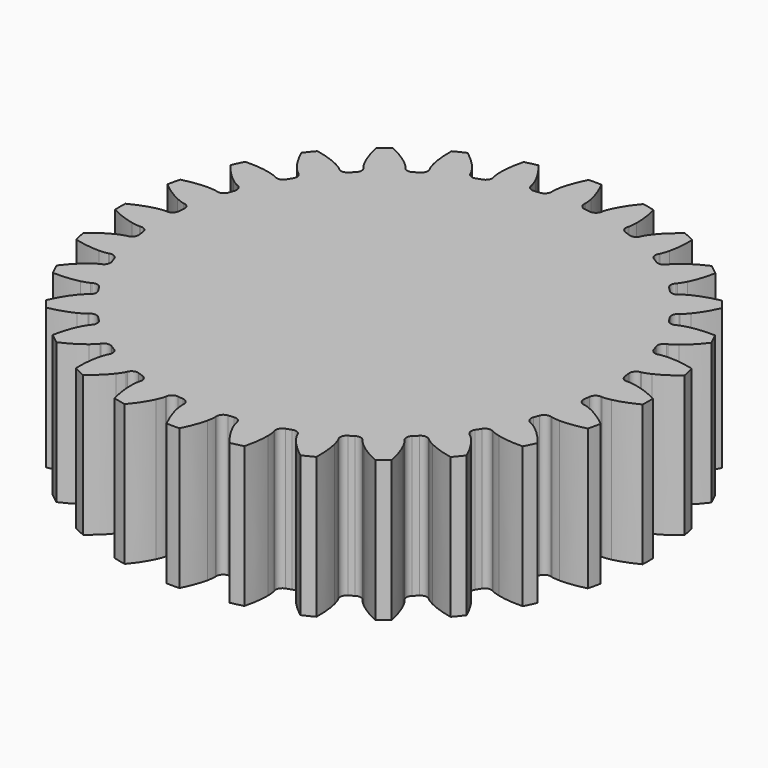
from build123d import *

# Parameters (mm, degrees)
PAD_DEPTH = 20


with BuildPart() as part:
    # InvoluteGear → Pad (new body)
    with BuildSketch(Plane.XY):
        with BuildLine():
            Line((32.716459, -2.32692), (32.856946, -2.335013))
            add(Edge.make_bspline(
                [(32.856946, -2.335013), (32.990949, -2.337125), (33.394798, -2.328721), (34.06713, -2.188651)],
                knots=[0, 0, 0, 0, 1, 1, 1, 1], degree=3))
            add(Edge.make_bspline(
                [(34.06713, -2.188651), (34.873016, -2.018801), (36.038338, -1.661329), (37.491435, -0.912795)],
                knots=[0, 0, 0, 0, 1, 1, 1, 1], degree=3))
            ThreePointArc((37.491435, -0.912795), (37.502546, 0), (37.491435, 0.912795))
            add(Edge.make_bspline(
                [(37.491435, 0.912795), (36.038338, 1.661329), (34.873016, 2.018801), (34.06713, 2.188651)],
                knots=[0, 0, 0, 0, 1, 1, 1, 1], degree=3))
            add(Edge.make_bspline(
                [(34.06713, 2.188651), (33.394798, 2.328721), (32.990949, 2.337125), (32.856946, 2.335013)],
                knots=[0, 0, 0, 0, 1, 1, 1, 1], degree=3))
            Line((32.856946, 2.335013), (32.716459, 2.32692))
            ThreePointArc((32.716459, 2.32692), (32.04606, 2.544962), (31.71713, 3.168486))
            ThreePointArc((31.71713, 3.168486), (31.674577, 3.568868), (31.62697, 3.96868))
            ThreePointArc((31.62697, 3.96868), (31.808906, 4.649765), (32.413977, 5.011518))
            Line((32.413977, 5.011518), (32.552743, 5.034889))
            add(Edge.make_bspline(
                [(32.552743, 5.034889), (32.683857, 5.062649), (33.07571, 5.160707), (33.700017, 5.446872)],
                knots=[0, 0, 0, 0, 1, 1, 1, 1], degree=3))
            add(Edge.make_bspline(
                [(33.700017, 5.446872), (34.447903, 5.791791), (35.504462, 6.399608), (36.754562, 7.45272)],
                knots=[0, 0, 0, 0, 1, 1, 1, 1], degree=3))
            ThreePointArc((36.754562, 7.45272), (36.562279, 8.345102), (36.348331, 9.232538))
            add(Edge.make_bspline(
                [(36.348331, 9.232538), (34.765101, 9.638961), (33.549452, 9.728162), (32.725976, 9.714427)],
                knots=[0, 0, 0, 0, 1, 1, 1, 1], degree=3))
            add(Edge.make_bspline(
                [(32.725976, 9.714427), (32.039332, 9.701377), (31.643738, 9.619705), (31.513565, 9.587827)],
                knots=[0, 0, 0, 0, 1, 1, 1, 1], degree=3))
            Line((31.513565, 9.587827), (31.378401, 9.548676))
            ThreePointArc((31.378401, 9.548676), (30.676291, 9.612074), (30.216861, 10.146771))
            ThreePointArc((30.216861, 10.146771), (30.086281, 10.527645), (29.950901, 10.90684))
            ThreePointArc((29.950901, 10.90684), (29.97672, 11.611333), (30.486124, 12.098658))
            Line((30.486124, 12.098658), (30.61621, 12.152321))
            add(Edge.make_bspline(
                [(30.61621, 12.152321), (30.737859, 12.20856), (31.098067, 12.391355), (31.643044, 12.809267)],
                knots=[0, 0, 0, 0, 1, 1, 1, 1], degree=3))
            add(Edge.make_bspline(
                [(31.643044, 12.809267), (32.295427, 13.311958), (33.190244, 14.139643), (34.174663, 15.444524)],
                knots=[0, 0, 0, 0, 1, 1, 1, 1], degree=3))
            ThreePointArc((34.174663, 15.444524), (33.788626, 16.271745), (33.382569, 17.089324))
            add(Edge.make_bspline(
                [(33.382569, 17.089324), (31.748597, 17.133255), (30.543577, 16.949712), (29.743804, 16.753081)],
                knots=[0, 0, 0, 0, 1, 1, 1, 1], degree=3))
            add(Edge.make_bspline(
                [(29.743804, 16.753081), (29.077279, 16.587565), (28.709778, 16.419913), (28.589961, 16.359868)],
                knots=[0, 0, 0, 0, 1, 1, 1, 1], degree=3))
            Line((28.589961, 16.359868), (28.466899, 16.291622))
            ThreePointArc((28.466899, 16.291622), (27.768285, 16.197196), (27.201392, 16.616254))
            ThreePointArc((27.201392, 16.616254), (26.989334, 16.958522), (26.772969, 17.298085))
            ThreePointArc((26.772969, 17.298085), (26.641377, 17.99066), (27.029568, 18.57912))
            Line((27.029568, 18.57912), (27.144452, 18.660384))
            add(Edge.make_bspline(
                [(27.144452, 18.660384), (27.250536, 18.742283), (27.561038, 19.000649), (27.999357, 19.529352)],
                knots=[0, 0, 0, 0, 1, 1, 1, 1], degree=3))
            add(Edge.make_bspline(
                [(27.999357, 19.529352), (28.523524, 20.164608), (29.211729, 21.170657), (29.881102, 22.661876)],
                knots=[0, 0, 0, 0, 1, 1, 1, 1], degree=3))
            ThreePointArc((29.881102, 22.661876), (29.320671, 23.382455), (28.742866, 24.089179))
            add(Edge.make_bspline(
                [(28.742866, 24.089179), (27.140085, 23.768415), (26.00612, 23.321332), (25.270153, 22.951665)],
                knots=[0, 0, 0, 0, 1, 1, 1, 1], degree=3))
            add(Edge.make_bspline(
                [(25.270153, 22.951665), (24.657171, 22.641983), (24.336189, 22.396758), (24.232738, 22.311557)],
                knots=[0, 0, 0, 0, 1, 1, 1, 1], degree=3))
            Line((24.232738, 22.311557), (24.127947, 22.217638))
            ThreePointArc((24.127947, 22.217638), (23.467861, 21.970123), (22.821932, 22.252529))
            ThreePointArc((22.821932, 22.252529), (22.539029, 22.539029), (22.252529, 22.821932))
            ThreePointArc((22.252529, 22.821932), (21.970123, 23.467861), (22.217638, 24.127947))
            Line((22.217638, 24.127947), (22.311557, 24.232738))
            add(Edge.make_bspline(
                [(22.311557, 24.232738), (22.396758, 24.336189), (22.641983, 24.657171), (22.951665, 25.270153)],
                knots=[0, 0, 0, 0, 1, 1, 1, 1], degree=3))
            add(Edge.make_bspline(
                [(22.951665, 25.270153), (23.321332, 26.00612), (23.768415, 27.140085), (24.089179, 28.742866)],
                knots=[0, 0, 0, 0, 1, 1, 1, 1], degree=3))
            ThreePointArc((24.089179, 28.742866), (23.382455, 29.320671), (22.661876, 29.881102))
            add(Edge.make_bspline(
                [(22.661876, 29.881102), (21.170657, 29.211729), (20.164608, 28.523524), (19.529352, 27.999357)],
                knots=[0, 0, 0, 0, 1, 1, 1, 1], degree=3))
            add(Edge.make_bspline(
                [(19.529352, 27.999357), (19.000649, 27.561038), (18.742283, 27.250536), (18.660384, 27.144452)],
                knots=[0, 0, 0, 0, 1, 1, 1, 1], degree=3))
            Line((18.660384, 27.144452), (18.57912, 27.029568))
            ThreePointArc((18.57912, 27.029568), (17.99066, 26.641377), (17.298085, 26.772969))
            ThreePointArc((17.298085, 26.772969), (16.958522, 26.989334), (16.616254, 27.201392))
            ThreePointArc((16.616254, 27.201392), (16.197196, 27.768285), (16.291622, 28.466899))
            Line((16.291622, 28.466899), (16.359868, 28.589961))
            add(Edge.make_bspline(
                [(16.359868, 28.589961), (16.419913, 28.709778), (16.587565, 29.077279), (16.753081, 29.743804)],
                knots=[0, 0, 0, 0, 1, 1, 1, 1], degree=3))
            add(Edge.make_bspline(
                [(16.753081, 29.743804), (16.949712, 30.543577), (17.133255, 31.748597), (17.089324, 33.382569)],
                knots=[0, 0, 0, 0, 1, 1, 1, 1], degree=3))
            ThreePointArc((17.089324, 33.382569), (16.271745, 33.788626), (15.444524, 34.174663))
            add(Edge.make_bspline(
                [(15.444524, 34.174663), (14.139643, 33.190244), (13.311958, 32.295427), (12.809267, 31.643044)],
                knots=[0, 0, 0, 0, 1, 1, 1, 1], degree=3))
            add(Edge.make_bspline(
                [(12.809267, 31.643044), (12.391355, 31.098067), (12.20856, 30.737859), (12.152321, 30.61621)],
                knots=[0, 0, 0, 0, 1, 1, 1, 1], degree=3))
            Line((12.152321, 30.61621), (12.098658, 30.486124))
            ThreePointArc((12.098658, 30.486124), (11.611333, 29.97672), (10.90684, 29.950901))
            ThreePointArc((10.90684, 29.950901), (10.527645, 30.086281), (10.146771, 30.216861))
            ThreePointArc((10.146771, 30.216861), (9.612074, 30.676291), (9.548676, 31.378401))
            Line((9.548676, 31.378401), (9.587827, 31.513565))
            add(Edge.make_bspline(
                [(9.587827, 31.513565), (9.619705, 31.643738), (9.701377, 32.039332), (9.714427, 32.725976)],
                knots=[0, 0, 0, 0, 1, 1, 1, 1], degree=3))
            add(Edge.make_bspline(
                [(9.714427, 32.725976), (9.728162, 33.549452), (9.638961, 34.765101), (9.232538, 36.348331)],
                knots=[0, 0, 0, 0, 1, 1, 1, 1], degree=3))
            ThreePointArc((9.232538, 36.348331), (8.345102, 36.562279), (7.45272, 36.754562))
            add(Edge.make_bspline(
                [(7.45272, 36.754562), (6.399608, 35.504462), (5.791791, 34.447903), (5.446872, 33.700017)],
                knots=[0, 0, 0, 0, 1, 1, 1, 1], degree=3))
            add(Edge.make_bspline(
                [(5.446872, 33.700017), (5.160707, 33.07571), (5.062649, 32.683857), (5.034889, 32.552743)],
                knots=[0, 0, 0, 0, 1, 1, 1, 1], degree=3))
            Line((5.034889, 32.552743), (5.011518, 32.413977))
            ThreePointArc((5.011518, 32.413977), (4.649765, 31.808906), (3.96868, 31.62697))
            ThreePointArc((3.96868, 31.62697), (3.568868, 31.674577), (3.168486, 31.71713))
            ThreePointArc((3.168486, 31.71713), (2.544962, 32.04606), (2.32692, 32.716459))
            Line((2.32692, 32.716459), (2.335013, 32.856946))
            add(Edge.make_bspline(
                [(2.335013, 32.856946), (2.337125, 32.990949), (2.328721, 33.394798), (2.188651, 34.06713)],
                knots=[0, 0, 0, 0, 1, 1, 1, 1], degree=3))
            add(Edge.make_bspline(
                [(2.188651, 34.06713), (2.018801, 34.873016), (1.661329, 36.038338), (0.912795, 37.491435)],
                knots=[0, 0, 0, 0, 1, 1, 1, 1], degree=3))
            ThreePointArc((0.912795, 37.491435), (0, 37.502546), (-0.912795, 37.491435))
            add(Edge.make_bspline(
                [(-0.912795, 37.491435), (-1.661329, 36.038338), (-2.018801, 34.873016), (-2.188651, 34.06713)],
                knots=[0, 0, 0, 0, 1, 1, 1, 1], degree=3))
            add(Edge.make_bspline(
                [(-2.188651, 34.06713), (-2.328721, 33.394798), (-2.337125, 32.990949), (-2.335013, 32.856946)],
                knots=[0, 0, 0, 0, 1, 1, 1, 1], degree=3))
            Line((-2.335013, 32.856946), (-2.32692, 32.716459))
            ThreePointArc((-2.32692, 32.716459), (-2.544962, 32.04606), (-3.168486, 31.71713))
            ThreePointArc((-3.168486, 31.71713), (-3.568868, 31.674577), (-3.96868, 31.62697))
            ThreePointArc((-3.96868, 31.62697), (-4.649765, 31.808906), (-5.011518, 32.413977))
            Line((-5.011518, 32.413977), (-5.034889, 32.552743))
            add(Edge.make_bspline(
                [(-5.034889, 32.552743), (-5.062649, 32.683857), (-5.160707, 33.07571), (-5.446872, 33.700017)],
                knots=[0, 0, 0, 0, 1, 1, 1, 1], degree=3))
            add(Edge.make_bspline(
                [(-5.446872, 33.700017), (-5.791791, 34.447903), (-6.399608, 35.504462), (-7.45272, 36.754562)],
                knots=[0, 0, 0, 0, 1, 1, 1, 1], degree=3))
            ThreePointArc((-7.45272, 36.754562), (-8.345102, 36.562279), (-9.232538, 36.348331))
            add(Edge.make_bspline(
                [(-9.232538, 36.348331), (-9.638961, 34.765101), (-9.728162, 33.549452), (-9.714427, 32.725976)],
                knots=[0, 0, 0, 0, 1, 1, 1, 1], degree=3))
            add(Edge.make_bspline(
                [(-9.714427, 32.725976), (-9.701377, 32.039332), (-9.619705, 31.643738), (-9.587827, 31.513565)],
                knots=[0, 0, 0, 0, 1, 1, 1, 1], degree=3))
            Line((-9.587827, 31.513565), (-9.548676, 31.378401))
            ThreePointArc((-9.548676, 31.378401), (-9.612074, 30.676291), (-10.146771, 30.216861))
            ThreePointArc((-10.146771, 30.216861), (-10.527645, 30.086281), (-10.90684, 29.950901))
            ThreePointArc((-10.90684, 29.950901), (-11.611333, 29.97672), (-12.098658, 30.486124))
            Line((-12.098658, 30.486124), (-12.152321, 30.61621))
            add(Edge.make_bspline(
                [(-12.152321, 30.61621), (-12.20856, 30.737859), (-12.391355, 31.098067), (-12.809267, 31.643044)],
                knots=[0, 0, 0, 0, 1, 1, 1, 1], degree=3))
            add(Edge.make_bspline(
                [(-12.809267, 31.643044), (-13.311958, 32.295427), (-14.139643, 33.190244), (-15.444524, 34.174663)],
                knots=[0, 0, 0, 0, 1, 1, 1, 1], degree=3))
            ThreePointArc((-15.444524, 34.174663), (-16.271745, 33.788626), (-17.089324, 33.382569))
            add(Edge.make_bspline(
                [(-17.089324, 33.382569), (-17.133255, 31.748597), (-16.949712, 30.543577), (-16.753081, 29.743804)],
                knots=[0, 0, 0, 0, 1, 1, 1, 1], degree=3))
            add(Edge.make_bspline(
                [(-16.753081, 29.743804), (-16.587565, 29.077279), (-16.419913, 28.709778), (-16.359868, 28.589961)],
                knots=[0, 0, 0, 0, 1, 1, 1, 1], degree=3))
            Line((-16.359868, 28.589961), (-16.291622, 28.466899))
            ThreePointArc((-16.291622, 28.466899), (-16.197196, 27.768285), (-16.616254, 27.201392))
            ThreePointArc((-16.616254, 27.201392), (-16.958522, 26.989334), (-17.298085, 26.772969))
            ThreePointArc((-17.298085, 26.772969), (-17.99066, 26.641377), (-18.57912, 27.029568))
            Line((-18.57912, 27.029568), (-18.660384, 27.144452))
            add(Edge.make_bspline(
                [(-18.660384, 27.144452), (-18.742283, 27.250536), (-19.000649, 27.561038), (-19.529352, 27.999357)],
                knots=[0, 0, 0, 0, 1, 1, 1, 1], degree=3))
            add(Edge.make_bspline(
                [(-19.529352, 27.999357), (-20.164608, 28.523524), (-21.170657, 29.211729), (-22.661876, 29.881102)],
                knots=[0, 0, 0, 0, 1, 1, 1, 1], degree=3))
            ThreePointArc((-22.661876, 29.881102), (-23.382455, 29.320671), (-24.089179, 28.742866))
            add(Edge.make_bspline(
                [(-24.089179, 28.742866), (-23.768415, 27.140085), (-23.321332, 26.00612), (-22.951665, 25.270153)],
                knots=[0, 0, 0, 0, 1, 1, 1, 1], degree=3))
            add(Edge.make_bspline(
                [(-22.951665, 25.270153), (-22.641983, 24.657171), (-22.396758, 24.336189), (-22.311557, 24.232738)],
                knots=[0, 0, 0, 0, 1, 1, 1, 1], degree=3))
            Line((-22.311557, 24.232738), (-22.217638, 24.127947))
            ThreePointArc((-22.217638, 24.127947), (-21.970123, 23.467861), (-22.252529, 22.821932))
            ThreePointArc((-22.252529, 22.821932), (-22.539029, 22.539029), (-22.821932, 22.252529))
            ThreePointArc((-22.821932, 22.252529), (-23.467861, 21.970123), (-24.127947, 22.217638))
            Line((-24.127947, 22.217638), (-24.232738, 22.311557))
            add(Edge.make_bspline(
                [(-24.232738, 22.311557), (-24.336189, 22.396758), (-24.657171, 22.641983), (-25.270153, 22.951665)],
                knots=[0, 0, 0, 0, 1, 1, 1, 1], degree=3))
            add(Edge.make_bspline(
                [(-25.270153, 22.951665), (-26.00612, 23.321332), (-27.140085, 23.768415), (-28.742866, 24.089179)],
                knots=[0, 0, 0, 0, 1, 1, 1, 1], degree=3))
            ThreePointArc((-28.742866, 24.089179), (-29.320671, 23.382455), (-29.881102, 22.661876))
            add(Edge.make_bspline(
                [(-29.881102, 22.661876), (-29.211729, 21.170657), (-28.523524, 20.164608), (-27.999357, 19.529352)],
                knots=[0, 0, 0, 0, 1, 1, 1, 1], degree=3))
            add(Edge.make_bspline(
                [(-27.999357, 19.529352), (-27.561038, 19.000649), (-27.250536, 18.742283), (-27.144452, 18.660384)],
                knots=[0, 0, 0, 0, 1, 1, 1, 1], degree=3))
            Line((-27.144452, 18.660384), (-27.029568, 18.57912))
            ThreePointArc((-27.029568, 18.57912), (-26.641377, 17.99066), (-26.772969, 17.298085))
            ThreePointArc((-26.772969, 17.298085), (-26.989334, 16.958522), (-27.201392, 16.616254))
            ThreePointArc((-27.201392, 16.616254), (-27.768285, 16.197196), (-28.466899, 16.291622))
            Line((-28.466899, 16.291622), (-28.589961, 16.359868))
            add(Edge.make_bspline(
                [(-28.589961, 16.359868), (-28.709778, 16.419913), (-29.077279, 16.587565), (-29.743804, 16.753081)],
                knots=[0, 0, 0, 0, 1, 1, 1, 1], degree=3))
            add(Edge.make_bspline(
                [(-29.743804, 16.753081), (-30.543577, 16.949712), (-31.748597, 17.133255), (-33.382569, 17.089324)],
                knots=[0, 0, 0, 0, 1, 1, 1, 1], degree=3))
            ThreePointArc((-33.382569, 17.089324), (-33.788626, 16.271745), (-34.174663, 15.444524))
            add(Edge.make_bspline(
                [(-34.174663, 15.444524), (-33.190244, 14.139643), (-32.295427, 13.311958), (-31.643044, 12.809267)],
                knots=[0, 0, 0, 0, 1, 1, 1, 1], degree=3))
            add(Edge.make_bspline(
                [(-31.643044, 12.809267), (-31.098067, 12.391355), (-30.737859, 12.20856), (-30.61621, 12.152321)],
                knots=[0, 0, 0, 0, 1, 1, 1, 1], degree=3))
            Line((-30.61621, 12.152321), (-30.486124, 12.098658))
            ThreePointArc((-30.486124, 12.098658), (-29.97672, 11.611333), (-29.950901, 10.90684))
            ThreePointArc((-29.950901, 10.90684), (-30.086281, 10.527645), (-30.216861, 10.146771))
            ThreePointArc((-30.216861, 10.146771), (-30.676291, 9.612074), (-31.378401, 9.548676))
            Line((-31.378401, 9.548676), (-31.513565, 9.587827))
            add(Edge.make_bspline(
                [(-31.513565, 9.587827), (-31.643738, 9.619705), (-32.039332, 9.701377), (-32.725976, 9.714427)],
                knots=[0, 0, 0, 0, 1, 1, 1, 1], degree=3))
            add(Edge.make_bspline(
                [(-32.725976, 9.714427), (-33.549452, 9.728162), (-34.765101, 9.638961), (-36.348331, 9.232538)],
                knots=[0, 0, 0, 0, 1, 1, 1, 1], degree=3))
            ThreePointArc((-36.348331, 9.232538), (-36.562279, 8.345102), (-36.754562, 7.45272))
            add(Edge.make_bspline(
                [(-36.754562, 7.45272), (-35.504462, 6.399608), (-34.447903, 5.791791), (-33.700017, 5.446872)],
                knots=[0, 0, 0, 0, 1, 1, 1, 1], degree=3))
            add(Edge.make_bspline(
                [(-33.700017, 5.446872), (-33.07571, 5.160707), (-32.683857, 5.062649), (-32.552743, 5.034889)],
                knots=[0, 0, 0, 0, 1, 1, 1, 1], degree=3))
            Line((-32.552743, 5.034889), (-32.413977, 5.011518))
            ThreePointArc((-32.413977, 5.011518), (-31.808906, 4.649765), (-31.62697, 3.96868))
            ThreePointArc((-31.62697, 3.96868), (-31.674577, 3.568868), (-31.71713, 3.168486))
            ThreePointArc((-31.71713, 3.168486), (-32.04606, 2.544962), (-32.716459, 2.32692))
            Line((-32.716459, 2.32692), (-32.856946, 2.335013))
            add(Edge.make_bspline(
                [(-32.856946, 2.335013), (-32.990949, 2.337125), (-33.394798, 2.328721), (-34.06713, 2.188651)],
                knots=[0, 0, 0, 0, 1, 1, 1, 1], degree=3))
            add(Edge.make_bspline(
                [(-34.06713, 2.188651), (-34.873016, 2.018801), (-36.038338, 1.661329), (-37.491435, 0.912795)],
                knots=[0, 0, 0, 0, 1, 1, 1, 1], degree=3))
            ThreePointArc((-37.491435, 0.912795), (-37.502546, 0), (-37.491435, -0.912795))
            add(Edge.make_bspline(
                [(-37.491435, -0.912795), (-36.038338, -1.661329), (-34.873016, -2.018801), (-34.06713, -2.188651)],
                knots=[0, 0, 0, 0, 1, 1, 1, 1], degree=3))
            add(Edge.make_bspline(
                [(-34.06713, -2.188651), (-33.394798, -2.328721), (-32.990949, -2.337125), (-32.856946, -2.335013)],
                knots=[0, 0, 0, 0, 1, 1, 1, 1], degree=3))
            Line((-32.856946, -2.335013), (-32.716459, -2.32692))
            ThreePointArc((-32.716459, -2.32692), (-32.04606, -2.544962), (-31.71713, -3.168486))
            ThreePointArc((-31.71713, -3.168486), (-31.674577, -3.568868), (-31.62697, -3.96868))
            ThreePointArc((-31.62697, -3.96868), (-31.808906, -4.649765), (-32.413977, -5.011518))
            Line((-32.413977, -5.011518), (-32.552743, -5.034889))
            add(Edge.make_bspline(
                [(-32.552743, -5.034889), (-32.683857, -5.062649), (-33.07571, -5.160707), (-33.700017, -5.446872)],
                knots=[0, 0, 0, 0, 1, 1, 1, 1], degree=3))
            add(Edge.make_bspline(
                [(-33.700017, -5.446872), (-34.447903, -5.791791), (-35.504462, -6.399608), (-36.754562, -7.45272)],
                knots=[0, 0, 0, 0, 1, 1, 1, 1], degree=3))
            ThreePointArc((-36.754562, -7.45272), (-36.562279, -8.345102), (-36.348331, -9.232538))
            add(Edge.make_bspline(
                [(-36.348331, -9.232538), (-34.765101, -9.638961), (-33.549452, -9.728162), (-32.725976, -9.714427)],
                knots=[0, 0, 0, 0, 1, 1, 1, 1], degree=3))
            add(Edge.make_bspline(
                [(-32.725976, -9.714427), (-32.039332, -9.701377), (-31.643738, -9.619705), (-31.513565, -9.587827)],
                knots=[0, 0, 0, 0, 1, 1, 1, 1], degree=3))
            Line((-31.513565, -9.587827), (-31.378401, -9.548676))
            ThreePointArc((-31.378401, -9.548676), (-30.676291, -9.612074), (-30.216861, -10.146771))
            ThreePointArc((-30.216861, -10.146771), (-30.086281, -10.527645), (-29.950901, -10.90684))
            ThreePointArc((-29.950901, -10.90684), (-29.97672, -11.611333), (-30.486124, -12.098658))
            Line((-30.486124, -12.098658), (-30.61621, -12.152321))
            add(Edge.make_bspline(
                [(-30.61621, -12.152321), (-30.737859, -12.20856), (-31.098067, -12.391355), (-31.643044, -12.809267)],
                knots=[0, 0, 0, 0, 1, 1, 1, 1], degree=3))
            add(Edge.make_bspline(
                [(-31.643044, -12.809267), (-32.295427, -13.311958), (-33.190244, -14.139643), (-34.174663, -15.444524)],
                knots=[0, 0, 0, 0, 1, 1, 1, 1], degree=3))
            ThreePointArc((-34.174663, -15.444524), (-33.788626, -16.271745), (-33.382569, -17.089324))
            add(Edge.make_bspline(
                [(-33.382569, -17.089324), (-31.748597, -17.133255), (-30.543577, -16.949712), (-29.743804, -16.753081)],
                knots=[0, 0, 0, 0, 1, 1, 1, 1], degree=3))
            add(Edge.make_bspline(
                [(-29.743804, -16.753081), (-29.077279, -16.587565), (-28.709778, -16.419913), (-28.589961, -16.359868)],
                knots=[0, 0, 0, 0, 1, 1, 1, 1], degree=3))
            Line((-28.589961, -16.359868), (-28.466899, -16.291622))
            ThreePointArc((-28.466899, -16.291622), (-27.768285, -16.197196), (-27.201392, -16.616254))
            ThreePointArc((-27.201392, -16.616254), (-26.989334, -16.958522), (-26.772969, -17.298085))
            ThreePointArc((-26.772969, -17.298085), (-26.641377, -17.99066), (-27.029568, -18.57912))
            Line((-27.029568, -18.57912), (-27.144452, -18.660384))
            add(Edge.make_bspline(
                [(-27.144452, -18.660384), (-27.250536, -18.742283), (-27.561038, -19.000649), (-27.999357, -19.529352)],
                knots=[0, 0, 0, 0, 1, 1, 1, 1], degree=3))
            add(Edge.make_bspline(
                [(-27.999357, -19.529352), (-28.523524, -20.164608), (-29.211729, -21.170657), (-29.881102, -22.661876)],
                knots=[0, 0, 0, 0, 1, 1, 1, 1], degree=3))
            ThreePointArc((-29.881102, -22.661876), (-29.320671, -23.382455), (-28.742866, -24.089179))
            add(Edge.make_bspline(
                [(-28.742866, -24.089179), (-27.140085, -23.768415), (-26.00612, -23.321332), (-25.270153, -22.951665)],
                knots=[0, 0, 0, 0, 1, 1, 1, 1], degree=3))
            add(Edge.make_bspline(
                [(-25.270153, -22.951665), (-24.657171, -22.641983), (-24.336189, -22.396758), (-24.232738, -22.311557)],
                knots=[0, 0, 0, 0, 1, 1, 1, 1], degree=3))
            Line((-24.232738, -22.311557), (-24.127947, -22.217638))
            ThreePointArc((-24.127947, -22.217638), (-23.467861, -21.970123), (-22.821932, -22.252529))
            ThreePointArc((-22.821932, -22.252529), (-22.539029, -22.539029), (-22.252529, -22.821932))
            ThreePointArc((-22.252529, -22.821932), (-21.970123, -23.467861), (-22.217638, -24.127947))
            Line((-22.217638, -24.127947), (-22.311557, -24.232738))
            add(Edge.make_bspline(
                [(-22.311557, -24.232738), (-22.396758, -24.336189), (-22.641983, -24.657171), (-22.951665, -25.270153)],
                knots=[0, 0, 0, 0, 1, 1, 1, 1], degree=3))
            add(Edge.make_bspline(
                [(-22.951665, -25.270153), (-23.321332, -26.00612), (-23.768415, -27.140085), (-24.089179, -28.742866)],
                knots=[0, 0, 0, 0, 1, 1, 1, 1], degree=3))
            ThreePointArc((-24.089179, -28.742866), (-23.382455, -29.320671), (-22.661876, -29.881102))
            add(Edge.make_bspline(
                [(-22.661876, -29.881102), (-21.170657, -29.211729), (-20.164608, -28.523524), (-19.529352, -27.999357)],
                knots=[0, 0, 0, 0, 1, 1, 1, 1], degree=3))
            add(Edge.make_bspline(
                [(-19.529352, -27.999357), (-19.000649, -27.561038), (-18.742283, -27.250536), (-18.660384, -27.144452)],
                knots=[0, 0, 0, 0, 1, 1, 1, 1], degree=3))
            Line((-18.660384, -27.144452), (-18.57912, -27.029568))
            ThreePointArc((-18.57912, -27.029568), (-17.99066, -26.641377), (-17.298085, -26.772969))
            ThreePointArc((-17.298085, -26.772969), (-16.958522, -26.989334), (-16.616254, -27.201392))
            ThreePointArc((-16.616254, -27.201392), (-16.197196, -27.768285), (-16.291622, -28.466899))
            Line((-16.291622, -28.466899), (-16.359868, -28.589961))
            add(Edge.make_bspline(
                [(-16.359868, -28.589961), (-16.419913, -28.709778), (-16.587565, -29.077279), (-16.753081, -29.743804)],
                knots=[0, 0, 0, 0, 1, 1, 1, 1], degree=3))
            add(Edge.make_bspline(
                [(-16.753081, -29.743804), (-16.949712, -30.543577), (-17.133255, -31.748597), (-17.089324, -33.382569)],
                knots=[0, 0, 0, 0, 1, 1, 1, 1], degree=3))
            ThreePointArc((-17.089324, -33.382569), (-16.271745, -33.788626), (-15.444524, -34.174663))
            add(Edge.make_bspline(
                [(-15.444524, -34.174663), (-14.139643, -33.190244), (-13.311958, -32.295427), (-12.809267, -31.643044)],
                knots=[0, 0, 0, 0, 1, 1, 1, 1], degree=3))
            add(Edge.make_bspline(
                [(-12.809267, -31.643044), (-12.391355, -31.098067), (-12.20856, -30.737859), (-12.152321, -30.61621)],
                knots=[0, 0, 0, 0, 1, 1, 1, 1], degree=3))
            Line((-12.152321, -30.61621), (-12.098658, -30.486124))
            ThreePointArc((-12.098658, -30.486124), (-11.611333, -29.97672), (-10.90684, -29.950901))
            ThreePointArc((-10.90684, -29.950901), (-10.527645, -30.086281), (-10.146771, -30.216861))
            ThreePointArc((-10.146771, -30.216861), (-9.612074, -30.676291), (-9.548676, -31.378401))
            Line((-9.548676, -31.378401), (-9.587827, -31.513565))
            add(Edge.make_bspline(
                [(-9.587827, -31.513565), (-9.619705, -31.643738), (-9.701377, -32.039332), (-9.714427, -32.725976)],
                knots=[0, 0, 0, 0, 1, 1, 1, 1], degree=3))
            add(Edge.make_bspline(
                [(-9.714427, -32.725976), (-9.728162, -33.549452), (-9.638961, -34.765101), (-9.232538, -36.348331)],
                knots=[0, 0, 0, 0, 1, 1, 1, 1], degree=3))
            ThreePointArc((-9.232538, -36.348331), (-8.345102, -36.562279), (-7.45272, -36.754562))
            add(Edge.make_bspline(
                [(-7.45272, -36.754562), (-6.399608, -35.504462), (-5.791791, -34.447903), (-5.446872, -33.700017)],
                knots=[0, 0, 0, 0, 1, 1, 1, 1], degree=3))
            add(Edge.make_bspline(
                [(-5.446872, -33.700017), (-5.160707, -33.07571), (-5.062649, -32.683857), (-5.034889, -32.552743)],
                knots=[0, 0, 0, 0, 1, 1, 1, 1], degree=3))
            Line((-5.034889, -32.552743), (-5.011518, -32.413977))
            ThreePointArc((-5.011518, -32.413977), (-4.649765, -31.808906), (-3.96868, -31.62697))
            ThreePointArc((-3.96868, -31.62697), (-3.568868, -31.674577), (-3.168486, -31.71713))
            ThreePointArc((-3.168486, -31.71713), (-2.544962, -32.04606), (-2.32692, -32.716459))
            Line((-2.32692, -32.716459), (-2.335013, -32.856946))
            add(Edge.make_bspline(
                [(-2.335013, -32.856946), (-2.337125, -32.990949), (-2.328721, -33.394798), (-2.188651, -34.06713)],
                knots=[0, 0, 0, 0, 1, 1, 1, 1], degree=3))
            add(Edge.make_bspline(
                [(-2.188651, -34.06713), (-2.018801, -34.873016), (-1.661329, -36.038338), (-0.912795, -37.491435)],
                knots=[0, 0, 0, 0, 1, 1, 1, 1], degree=3))
            ThreePointArc((-0.912795, -37.491435), (0, -37.502546), (0.912795, -37.491435))
            add(Edge.make_bspline(
                [(0.912795, -37.491435), (1.661329, -36.038338), (2.018801, -34.873016), (2.188651, -34.06713)],
                knots=[0, 0, 0, 0, 1, 1, 1, 1], degree=3))
            add(Edge.make_bspline(
                [(2.188651, -34.06713), (2.328721, -33.394798), (2.337125, -32.990949), (2.335013, -32.856946)],
                knots=[0, 0, 0, 0, 1, 1, 1, 1], degree=3))
            Line((2.335013, -32.856946), (2.32692, -32.716459))
            ThreePointArc((2.32692, -32.716459), (2.544962, -32.04606), (3.168486, -31.71713))
            ThreePointArc((3.168486, -31.71713), (3.568868, -31.674577), (3.96868, -31.62697))
            ThreePointArc((3.96868, -31.62697), (4.649765, -31.808906), (5.011518, -32.413977))
            Line((5.011518, -32.413977), (5.034889, -32.552743))
            add(Edge.make_bspline(
                [(5.034889, -32.552743), (5.062649, -32.683857), (5.160707, -33.07571), (5.446872, -33.700017)],
                knots=[0, 0, 0, 0, 1, 1, 1, 1], degree=3))
            add(Edge.make_bspline(
                [(5.446872, -33.700017), (5.791791, -34.447903), (6.399608, -35.504462), (7.45272, -36.754562)],
                knots=[0, 0, 0, 0, 1, 1, 1, 1], degree=3))
            ThreePointArc((7.45272, -36.754562), (8.345102, -36.562279), (9.232538, -36.348331))
            add(Edge.make_bspline(
                [(9.232538, -36.348331), (9.638961, -34.765101), (9.728162, -33.549452), (9.714427, -32.725976)],
                knots=[0, 0, 0, 0, 1, 1, 1, 1], degree=3))
            add(Edge.make_bspline(
                [(9.714427, -32.725976), (9.701377, -32.039332), (9.619705, -31.643738), (9.587827, -31.513565)],
                knots=[0, 0, 0, 0, 1, 1, 1, 1], degree=3))
            Line((9.587827, -31.513565), (9.548676, -31.378401))
            ThreePointArc((9.548676, -31.378401), (9.612074, -30.676291), (10.146771, -30.216861))
            ThreePointArc((10.146771, -30.216861), (10.527645, -30.086281), (10.90684, -29.950901))
            ThreePointArc((10.90684, -29.950901), (11.611333, -29.97672), (12.098658, -30.486124))
            Line((12.098658, -30.486124), (12.152321, -30.61621))
            add(Edge.make_bspline(
                [(12.152321, -30.61621), (12.20856, -30.737859), (12.391355, -31.098067), (12.809267, -31.643044)],
                knots=[0, 0, 0, 0, 1, 1, 1, 1], degree=3))
            add(Edge.make_bspline(
                [(12.809267, -31.643044), (13.311958, -32.295427), (14.139643, -33.190244), (15.444524, -34.174663)],
                knots=[0, 0, 0, 0, 1, 1, 1, 1], degree=3))
            ThreePointArc((15.444524, -34.174663), (16.271745, -33.788626), (17.089324, -33.382569))
            add(Edge.make_bspline(
                [(17.089324, -33.382569), (17.133255, -31.748597), (16.949712, -30.543577), (16.753081, -29.743804)],
                knots=[0, 0, 0, 0, 1, 1, 1, 1], degree=3))
            add(Edge.make_bspline(
                [(16.753081, -29.743804), (16.587565, -29.077279), (16.419913, -28.709778), (16.359868, -28.589961)],
                knots=[0, 0, 0, 0, 1, 1, 1, 1], degree=3))
            Line((16.359868, -28.589961), (16.291622, -28.466899))
            ThreePointArc((16.291622, -28.466899), (16.197196, -27.768285), (16.616254, -27.201392))
            ThreePointArc((16.616254, -27.201392), (16.958522, -26.989334), (17.298085, -26.772969))
            ThreePointArc((17.298085, -26.772969), (17.99066, -26.641377), (18.57912, -27.029568))
            Line((18.57912, -27.029568), (18.660384, -27.144452))
            add(Edge.make_bspline(
                [(18.660384, -27.144452), (18.742283, -27.250536), (19.000649, -27.561038), (19.529352, -27.999357)],
                knots=[0, 0, 0, 0, 1, 1, 1, 1], degree=3))
            add(Edge.make_bspline(
                [(19.529352, -27.999357), (20.164608, -28.523524), (21.170657, -29.211729), (22.661876, -29.881102)],
                knots=[0, 0, 0, 0, 1, 1, 1, 1], degree=3))
            ThreePointArc((22.661876, -29.881102), (23.382455, -29.320671), (24.089179, -28.742866))
            add(Edge.make_bspline(
                [(24.089179, -28.742866), (23.768415, -27.140085), (23.321332, -26.00612), (22.951665, -25.270153)],
                knots=[0, 0, 0, 0, 1, 1, 1, 1], degree=3))
            add(Edge.make_bspline(
                [(22.951665, -25.270153), (22.641983, -24.657171), (22.396758, -24.336189), (22.311557, -24.232738)],
                knots=[0, 0, 0, 0, 1, 1, 1, 1], degree=3))
            Line((22.311557, -24.232738), (22.217638, -24.127947))
            ThreePointArc((22.217638, -24.127947), (21.970123, -23.467861), (22.252529, -22.821932))
            ThreePointArc((22.252529, -22.821932), (22.539029, -22.539029), (22.821932, -22.252529))
            ThreePointArc((22.821932, -22.252529), (23.467861, -21.970123), (24.127947, -22.217638))
            Line((24.127947, -22.217638), (24.232738, -22.311557))
            add(Edge.make_bspline(
                [(24.232738, -22.311557), (24.336189, -22.396758), (24.657171, -22.641983), (25.270153, -22.951665)],
                knots=[0, 0, 0, 0, 1, 1, 1, 1], degree=3))
            add(Edge.make_bspline(
                [(25.270153, -22.951665), (26.00612, -23.321332), (27.140085, -23.768415), (28.742866, -24.089179)],
                knots=[0, 0, 0, 0, 1, 1, 1, 1], degree=3))
            ThreePointArc((28.742866, -24.089179), (29.320671, -23.382455), (29.881102, -22.661876))
            add(Edge.make_bspline(
                [(29.881102, -22.661876), (29.211729, -21.170657), (28.523524, -20.164608), (27.999357, -19.529352)],
                knots=[0, 0, 0, 0, 1, 1, 1, 1], degree=3))
            add(Edge.make_bspline(
                [(27.999357, -19.529352), (27.561038, -19.000649), (27.250536, -18.742283), (27.144452, -18.660384)],
                knots=[0, 0, 0, 0, 1, 1, 1, 1], degree=3))
            Line((27.144452, -18.660384), (27.029568, -18.57912))
            ThreePointArc((27.029568, -18.57912), (26.641377, -17.99066), (26.772969, -17.298085))
            ThreePointArc((26.772969, -17.298085), (26.989334, -16.958522), (27.201392, -16.616254))
            ThreePointArc((27.201392, -16.616254), (27.768285, -16.197196), (28.466899, -16.291622))
            Line((28.466899, -16.291622), (28.589961, -16.359868))
            add(Edge.make_bspline(
                [(28.589961, -16.359868), (28.709778, -16.419913), (29.077279, -16.587565), (29.743804, -16.753081)],
                knots=[0, 0, 0, 0, 1, 1, 1, 1], degree=3))
            add(Edge.make_bspline(
                [(29.743804, -16.753081), (30.543577, -16.949712), (31.748597, -17.133255), (33.382569, -17.089324)],
                knots=[0, 0, 0, 0, 1, 1, 1, 1], degree=3))
            ThreePointArc((33.382569, -17.089324), (33.788626, -16.271745), (34.174663, -15.444524))
            add(Edge.make_bspline(
                [(34.174663, -15.444524), (33.190244, -14.139643), (32.295427, -13.311958), (31.643044, -12.809267)],
                knots=[0, 0, 0, 0, 1, 1, 1, 1], degree=3))
            add(Edge.make_bspline(
                [(31.643044, -12.809267), (31.098067, -12.391355), (30.737859, -12.20856), (30.61621, -12.152321)],
                knots=[0, 0, 0, 0, 1, 1, 1, 1], degree=3))
            Line((30.61621, -12.152321), (30.486124, -12.098658))
            ThreePointArc((30.486124, -12.098658), (29.97672, -11.611333), (29.950901, -10.90684))
            ThreePointArc((29.950901, -10.90684), (30.086281, -10.527645), (30.216861, -10.146771))
            ThreePointArc((30.216861, -10.146771), (30.676291, -9.612074), (31.378401, -9.548676))
            Line((31.378401, -9.548676), (31.513565, -9.587827))
            add(Edge.make_bspline(
                [(31.513565, -9.587827), (31.643738, -9.619705), (32.039332, -9.701377), (32.725976, -9.714427)],
                knots=[0, 0, 0, 0, 1, 1, 1, 1], degree=3))
            add(Edge.make_bspline(
                [(32.725976, -9.714427), (33.549452, -9.728162), (34.765101, -9.638961), (36.348331, -9.232538)],
                knots=[0, 0, 0, 0, 1, 1, 1, 1], degree=3))
            ThreePointArc((36.348331, -9.232538), (36.562279, -8.345102), (36.754562, -7.45272))
            add(Edge.make_bspline(
                [(36.754562, -7.45272), (35.504462, -6.399608), (34.447903, -5.791791), (33.700017, -5.446872)],
                knots=[0, 0, 0, 0, 1, 1, 1, 1], degree=3))
            add(Edge.make_bspline(
                [(33.700017, -5.446872), (33.07571, -5.160707), (32.683857, -5.062649), (32.552743, -5.034889)],
                knots=[0, 0, 0, 0, 1, 1, 1, 1], degree=3))
            Line((32.552743, -5.034889), (32.413977, -5.011518))
            ThreePointArc((32.413977, -5.011518), (31.808906, -4.649765), (31.62697, -3.96868))
            ThreePointArc((31.62697, -3.96868), (31.674577, -3.568868), (31.71713, -3.168486))
            ThreePointArc((31.71713, -3.168486), (32.04606, -2.544962), (32.716459, -2.32692))
        make_face()
    extrude(amount=PAD_DEPTH)


solid = part.part
